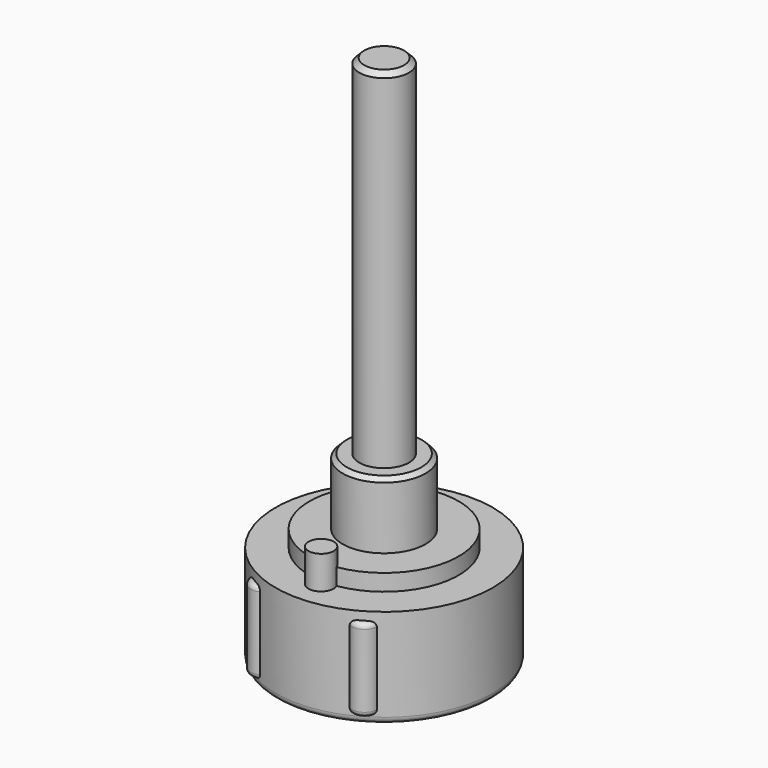
from build123d import *

# Parameters (mm, degrees)
SKETCH_R        = 9
PAD_DEPTH       = 2
SKETCH001_R     = 13.1
PAD001_DEPTH    = 5
SKETCH002_R     = 13.1
PAD002_DEPTH    = 7
SKETCH003_R     = 1.525
PAD003_DEPTH    = 4
SKETCH004_R     = 5
PAD004_DEPTH    = 8
SKETCH005_R     = 3
PAD005_DEPTH    = 42
SKETCH006_R     = 1.525
PAD006_DEPTH    = 10
FILLET_R        = 0.6
FILLET001_R     = 0.8
CHAMFER_SIZE    = 0.6
CHAMFER001_SIZE = 0.5


with BuildPart() as part:
    # Sketch → Pad (new body)
    with BuildSketch(Plane.XY):
        Circle(SKETCH_R)
    extrude(amount=-PAD_DEPTH)

    # Sketch001 (on Face3 of Pad) → Pad001 (join)
    with BuildSketch(Plane(origin=(0, 0, -2), x_dir=(1, 0, 0), z_dir=(0, 0, -1))):
        Circle(SKETCH001_R)
    extrude(amount=PAD001_DEPTH)

    # Sketch002 (on Face3 of Pad001) → Pad002 (join)
    with BuildSketch(Plane(origin=(0, 0, -7), x_dir=(1, 0, 0), z_dir=(0, 0, -1))):
        Circle(SKETCH002_R)
    extrude(amount=PAD002_DEPTH)

    # Sketch003 (on Face2 of Pad002) → Pad003 (join)
    with BuildSketch(Plane.XY.offset(-2)):
        with Locations((0, -9.5)):
            Circle(SKETCH003_R)
    extrude(amount=PAD003_DEPTH)

    # Sketch004 (on Face8 of Pad003) → Pad004 (join)
    with BuildSketch(Plane.XY):
        Circle(SKETCH004_R)
    extrude(amount=PAD004_DEPTH)

    # Sketch005 (on Face11 of Pad004) → Pad005 (join)
    with BuildSketch(Plane.XY.offset(8)):
        Circle(SKETCH005_R)
    extrude(amount=PAD005_DEPTH)

    # Sketch006 (on Face2 of Pad005) → Pad006 (join)
    with BuildSketch(Plane.XY.offset(-3)):
        with Locations((-6.1125, 10.587161)):
            Circle(SKETCH006_R)
        with Locations((6.1125, -10.587161)):
            Circle(SKETCH006_R)
        with Locations((6.1125, 10.587161)):
            Circle(SKETCH006_R)
        with Locations((-6.1125, -10.587161)):
            Circle(SKETCH006_R)
    extrude(amount=-PAD006_DEPTH)

    # Fillet
    fillet_edges = [part.edges().sort_by_distance(p)[0] for p in [
        (-6.875, -11.90785, -3),
        (-6.875, -11.90785, -13),
        (6.875, -11.90785, -3),
        (6.875, -11.90785, -13),
        (6.875, 11.90785, -3),
        (-6.875, 11.90785, -3),
        (6.875, 11.90785, -13),
        (-6.875, 11.90785, -13),
    ]]
    fillet(fillet_edges, radius=FILLET_R)

    # Fillet001
    fillet001_edges = [part.edges().sort_by_distance(p)[0] for p in [
        (-13.1, 0, -14),
    ]]
    fillet(fillet001_edges, radius=FILLET001_R)

    # Chamfer
    chamfer_edges = [part.edges().sort_by_distance(p)[0] for p in [
        (-3, 0, 50),
    ]]
    chamfer(chamfer_edges, length=CHAMFER_SIZE)

    # Chamfer001
    chamfer001_edges = [part.edges().sort_by_distance(p)[0] for p in [
        (-5, 0, 8),
    ]]
    chamfer(chamfer001_edges, length=CHAMFER001_SIZE)


solid = part.part
